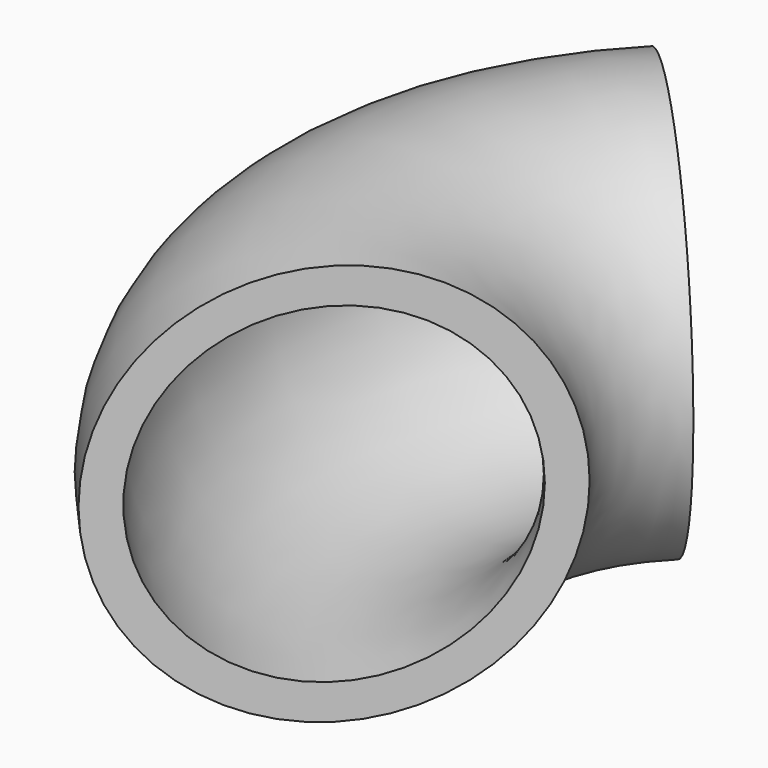
from build123d import *

# Parameters (mm, degrees)
F0_R          = 27.8925028773
F0_R_2        = 23
F1_ANGLE_BACK = 45
F1_ANGLE      = 90


with BuildPart() as f1:
    # F0 (on Front) → F1 (revolve)
    with BuildSketch(Plane.XZ, mode=Mode.PRIVATE) as f1_sk:
        Circle(F0_R)
        Circle(F0_R_2, mode=Mode.SUBTRACT)
    revolve(f1_sk.sketch.rotate(Axis((40.6198017299, 0, -0.7861908525), (0, 0, -1)), -F1_ANGLE_BACK), axis=Axis((40.6198017299, 0, -0.7861908525), (0, 0, -1)), revolution_arc=F1_ANGLE)


solid = f1.part
